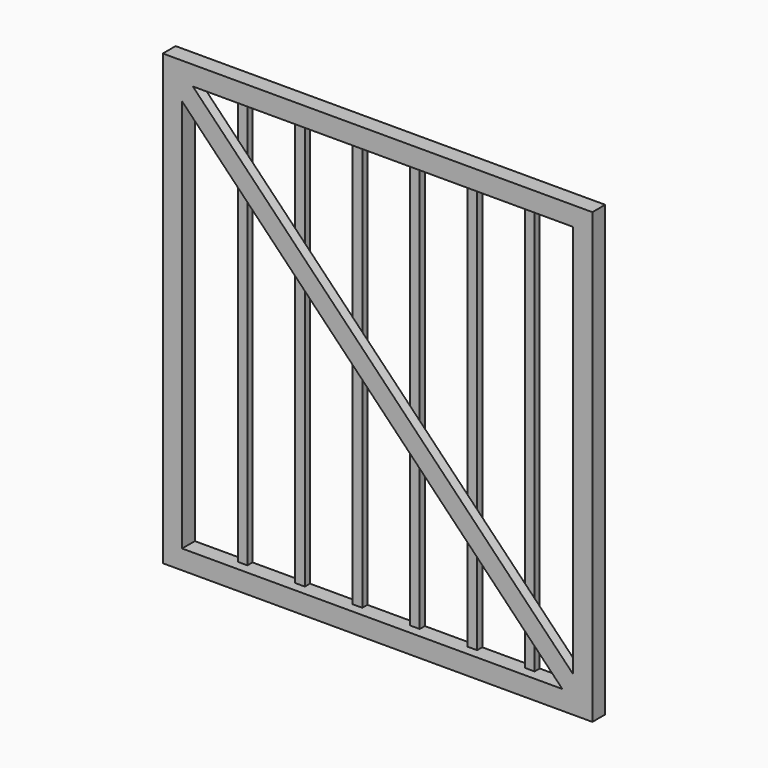
from build123d import *

# Parameters (mm, degrees)
F0_W     = 850.9
F0_H     = 889
F0_W_2   = 774.7
F0_H_2   = 812.8
F1_DEPTH = 31.75
F2_W     = 19.05
F2_H     = 812.8
F3_DEPTH = 12.7
F5_DEPTH = 19.05


with BuildPart() as f1:
    # F0 (on Front) → F1 (new body)
    with BuildSketch(Plane.XZ):
        Rectangle(F0_W, F0_H)
        Rectangle(F0_W_2, F0_H_2, mode=Mode.SUBTRACT)
    extrude(amount=F1_DEPTH)

    # F2 (on face) → F3 (join)
    with BuildSketch(Plane(origin=(0, 0, 0), x_dir=(-1, 0, 0), z_dir=(0, 1, 0))):
        with Locations((-286.258, 0)):
            Rectangle(F2_W, F2_H)
        with Locations((-172.466, 0)):
            Rectangle(F2_W, F2_H)
        with Locations((-58.674, 0)):
            Rectangle(F2_W, F2_H)
        with Locations((55.118, 0)):
            Rectangle(F2_W, F2_H)
        with Locations((168.91, 0)):
            Rectangle(F2_W, F2_H)
        with Locations((282.702, 0)):
            Rectangle(F2_W, F2_H)
    extrude(amount=-F3_DEPTH)

    # F4 (on face) → F5 (join)
    with BuildSketch(Plane.XZ.offset(31.75)):
        Polygon((387.35, -373.689115), (-365.973302, 406.4), (-387.35, 406.4), (-387.35, 373.689115), (365.973302, -406.4), (387.35, -406.4), align=None)
    extrude(amount=-F5_DEPTH)


solid = f1.part
